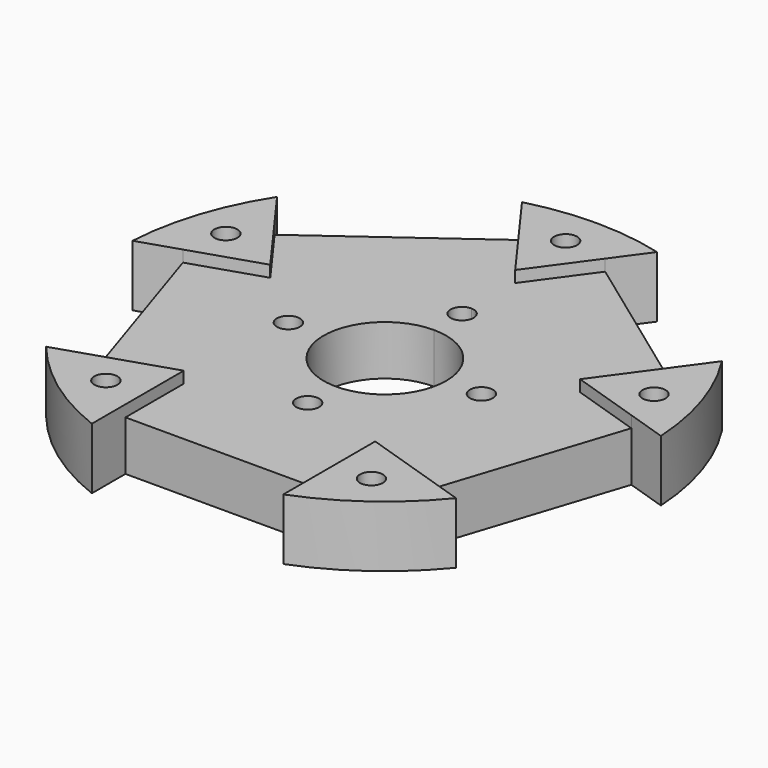
from build123d import *

# Parameters (mm, degrees)
F0_R     = 1.5
F1_DEPTH = 8
F0_W     = 25
F0_H     = 9.516004
F2_DEPTH = 6.5


with BuildPart() as f1:
    # F0 (on Top) → F1 (new body)
    with BuildSketch(Plane.XY):
        with BuildLine():
            Line((-29.275683, 3.631032), (-20.225425, 6.571639))
            Line((-20.225425, 6.571639), (-25.818792, 14.270248))
            Line((-25.818792, 14.270248), (-29.042204, 18.706894))
            ThreePointArc((-29.042204, 18.706894), (-32.854804, 10.675173), (-34.491273, 1.936384))
            Line((-34.491273, 1.936384), (-29.275683, 3.631032))
        make_face()
        with Locations((-28.056167, 9.116001)):
            Circle(F0_R, mode=Mode.SUBTRACT)
        with BuildLine():
            Line((-5.593367, 28.96488), (0, 21.26627))
            Line((0, 21.26627), (5.593367, 28.96488))
            Line((5.593367, 28.96488), (8.816779, 33.401525))
            ThreePointArc((8.816779, 33.401525), (0, 34.545585), (-8.816779, 33.401525))
            Line((-8.816779, 33.401525), (-5.593367, 28.96488))
        make_face()
        with Locations((0, 29.5)):
            Circle(F0_R, mode=Mode.SUBTRACT)
        with BuildLine():
            Line((25.818792, 14.270248), (20.225425, 6.571639))
            Line((20.225425, 6.571639), (29.275683, 3.631032))
            Line((29.275683, 3.631032), (34.491273, 1.936384))
            ThreePointArc((34.491273, 1.936384), (32.854804, 10.675173), (29.042204, 18.706894))
            Line((29.042204, 18.706894), (25.818792, 14.270248))
        make_face()
        with Locations((28.189855, 8.693796)):
            Circle(F0_R, mode=Mode.SUBTRACT)
        with BuildLine():
            Line((21.550258, -20.145381), (12.5, -17.204774))
            Line((12.5, -17.204774), (12.5, -26.720778))
            Line((12.5, -26.720778), (12.5, -32.204774))
            ThreePointArc((12.5, -32.204774), (20.305386, -27.947966), (26.765848, -21.840029))
            Line((26.765848, -21.840029), (21.550258, -20.145381))
        make_face()
        with Locations((17.339665, -23.866001)):
            Circle(F0_R, mode=Mode.SUBTRACT)
        with BuildLine():
            Line((-12.5, -26.720778), (-12.5, -17.204774))
            Line((-12.5, -17.204774), (-21.550258, -20.145381))
            Line((-21.550258, -20.145381), (-26.765848, -21.840029))
            ThreePointArc((-26.765848, -21.840029), (-20.305386, -27.947966), (-12.5, -32.204774))
            Line((-12.5, -32.204774), (-12.5, -26.720778))
        make_face()
        with Locations((-17.339665, -23.866001)):
            Circle(F0_R, mode=Mode.SUBTRACT)
    extrude(amount=F1_DEPTH)


with BuildPart() as f2:
    # F0 (on Top) → F2 (new body)
    with BuildSketch(Plane.XY):
        with Locations((0, -21.962776)):
            Rectangle(F0_W, F0_H)
        Polygon((-21.550258, -20.145381), (-12.5, -17.204774), (-20.225425, 6.571639), (-29.275683, 3.631032), align=None)
        Polygon((-25.818792, 14.270248), (-20.225425, 6.571639), (0, 21.26627), (-5.593367, 28.96488), align=None)
        Polygon((0, 21.26627), (20.225425, 6.571639), (25.818792, 14.270248), (5.593367, 28.96488), align=None)
        Polygon((-12.5, -17.204774), (12.5, -17.204774), (20.225425, 6.571639), (0, 21.26627), (-20.225425, 6.571639), align=None)
        with Locations((-12.602387, 0)):
            Circle(F0_R, mode=Mode.SUBTRACT)
        with Locations((0, -12.602387)):
            Circle(F0_R, mode=Mode.SUBTRACT)
        with BuildLine():
            ThreePointArc((0, 8), (5.656854, 5.656854), (8, 0))
            ThreePointArc((8, 0), (-5.656854, -5.656854), (0, 8))
        make_face(mode=Mode.SUBTRACT)
        with Locations((12.602387, 0)):
            Circle(F0_R, mode=Mode.SUBTRACT)
        with BuildLine():
            ThreePointArc((1.5, 12.602387), (1.06066, 11.541727), (0, 11.102387))
            ThreePointArc((0, 11.102387), (-1.5, 12.602387), (0, 14.102387))
            ThreePointArc((0, 14.102387), (1.06066, 13.663047), (1.5, 12.602387))
        make_face(mode=Mode.SUBTRACT)
        Polygon((20.225425, 6.571639), (12.5, -17.204774), (21.550258, -20.145381), (29.275683, 3.631032), align=None)
    extrude(amount=F2_DEPTH)


solid = Compound([f1.part, f2.part])
